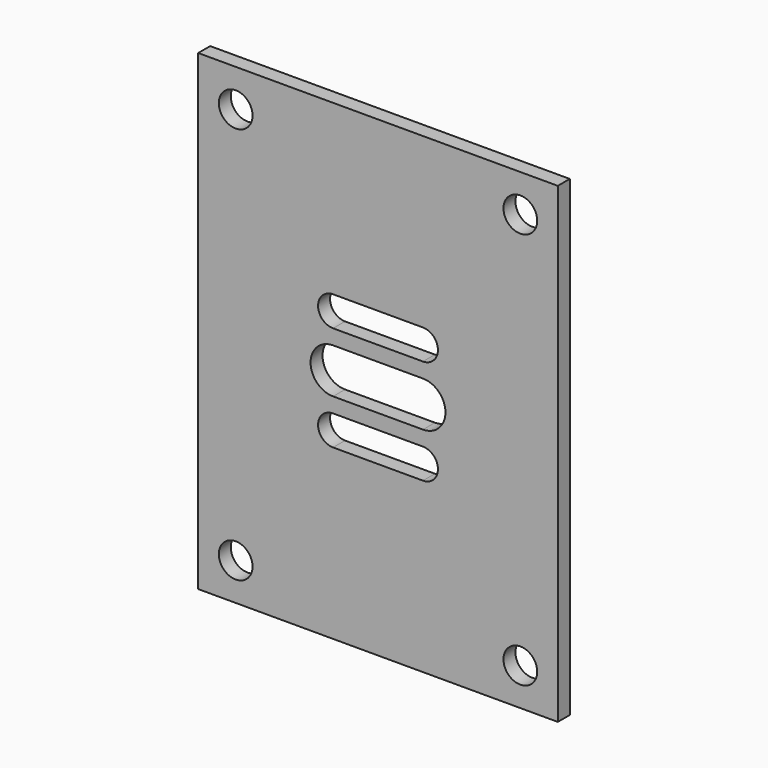
from build123d import *

# Parameters (mm, degrees)
F1_W     = 1219.2
F1_H     = 1600.2
F2_DEPTH = 50.8
F3_R     = 57.15
F4_DEPTH = 76.2
F5_W     = 304.8
F5_H     = 101.6
F5_H_2   = 152.4
F6_DEPTH = 76.2
F7_DEPTH = 76.2


with BuildPart() as f2:
    # F1 (on face) → F2 (new body)
    with BuildSketch(Plane.XZ):
        Rectangle(F1_W, F1_H)
    extrude(amount=F2_DEPTH)

    # F3 (on face) → F4 (cut)
    with BuildSketch(Plane.XZ.offset(50.8)):
        with Locations((-482.6, 673.1)):
            Circle(F3_R)
        with Locations((482.6, 673.1)):
            Circle(F3_R)
        with Locations((-482.6, -673.1)):
            Circle(F3_R)
        with Locations((482.6, -673.1)):
            Circle(F3_R)
    extrude(amount=-F4_DEPTH, mode=Mode.SUBTRACT)

    # F5 (on face) → F6 (cut)
    with BuildSketch(Plane.XZ.offset(50.8)):
        with Locations((0, 177.8)):
            Rectangle(F5_W, F5_H)
        with BuildLine():
            ThreePointArc((-152.4, 228.6), (-203.2, 177.8), (-152.4, 127))
            Line((-152.4, 127), (-152.4, 228.6))
        make_face()
        with BuildLine():
            Line((152.4, 228.6), (152.4, 127))
            ThreePointArc((152.4, 127), (203.2, 177.8), (152.4, 228.6))
        make_face()
        with BuildLine():
            Line((152.4, -127), (-152.4, -127))
            ThreePointArc((-152.4, -127), (-203.2, -177.8), (-152.4, -228.6))
            Line((-152.4, -228.6), (152.4, -228.6))
            ThreePointArc((152.4, -228.6), (203.2, -177.8), (152.4, -127))
        make_face()
        Rectangle(F5_W, F5_H_2)
        with BuildLine():
            ThreePointArc((-152.4, 76.2), (-228.6, 0), (-152.4, -76.2))
            Line((-152.4, -76.2), (-152.4, 76.2))
        make_face()
        with BuildLine():
            Line((152.4, 76.2), (152.4, -76.2))
            ThreePointArc((152.4, -76.2), (228.6, 0), (152.4, 76.2))
        make_face()
    extrude(amount=-F6_DEPTH, mode=Mode.SUBTRACT)

    # F5 (on face) → F7 (cut)
    with BuildSketch(Plane.XZ.offset(50.8)):
        with Locations((0, 177.8)):
            Rectangle(F5_W, F5_H)
        with BuildLine():
            ThreePointArc((-152.4, 228.6), (-203.2, 177.8), (-152.4, 127))
            Line((-152.4, 127), (-152.4, 228.6))
        make_face()
        with BuildLine():
            Line((152.4, 228.6), (152.4, 127))
            ThreePointArc((152.4, 127), (203.2, 177.8), (152.4, 228.6))
        make_face()
        with BuildLine():
            Line((152.4, -127), (-152.4, -127))
            ThreePointArc((-152.4, -127), (-203.2, -177.8), (-152.4, -228.6))
            Line((-152.4, -228.6), (152.4, -228.6))
            ThreePointArc((152.4, -228.6), (203.2, -177.8), (152.4, -127))
        make_face()
        Rectangle(F5_W, F5_H_2)
        with BuildLine():
            ThreePointArc((-152.4, 76.2), (-228.6, 0), (-152.4, -76.2))
            Line((-152.4, -76.2), (-152.4, 76.2))
        make_face()
        with BuildLine():
            Line((152.4, 76.2), (152.4, -76.2))
            ThreePointArc((152.4, -76.2), (228.6, 0), (152.4, 76.2))
        make_face()
    extrude(amount=-F7_DEPTH, mode=Mode.SUBTRACT)


solid = f2.part
